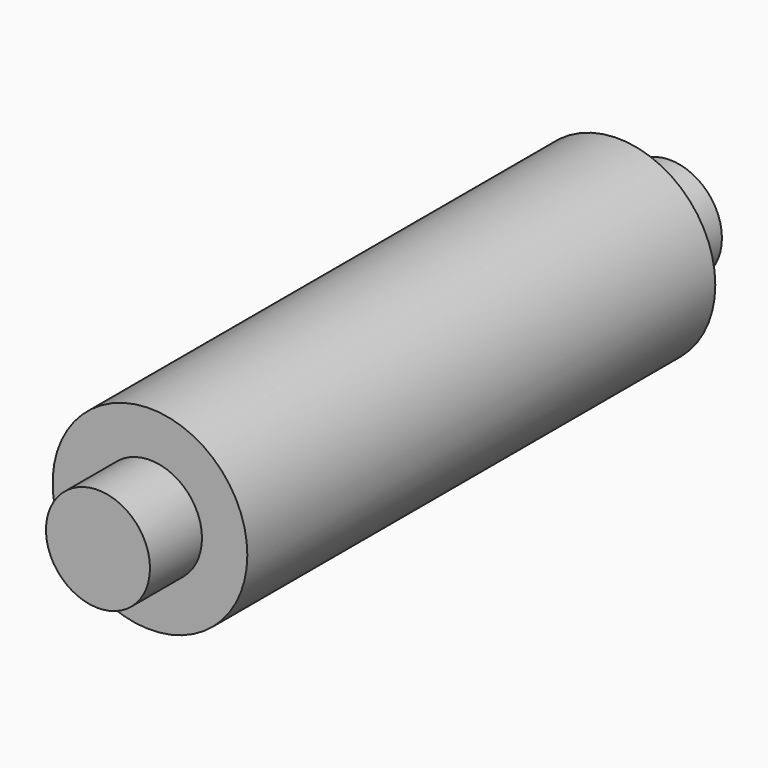
from build123d import *

# Parameters (mm, degrees)
F0_R     = 7.49
F1_DEPTH = 22.5
F2_R     = 4
F3_DEPTH = 27.5


with BuildPart() as f1:
    # F0 (on Front) → F1 (new body, symmetric)
    with BuildSketch(Plane.XZ):
        Circle(F0_R)
    extrude(amount=F1_DEPTH, both=True)

    # F2 (on Front) → F3 (join, symmetric)
    with BuildSketch(Plane.XZ):
        Circle(F2_R)
    extrude(amount=F3_DEPTH, both=True)


solid = f1.part
